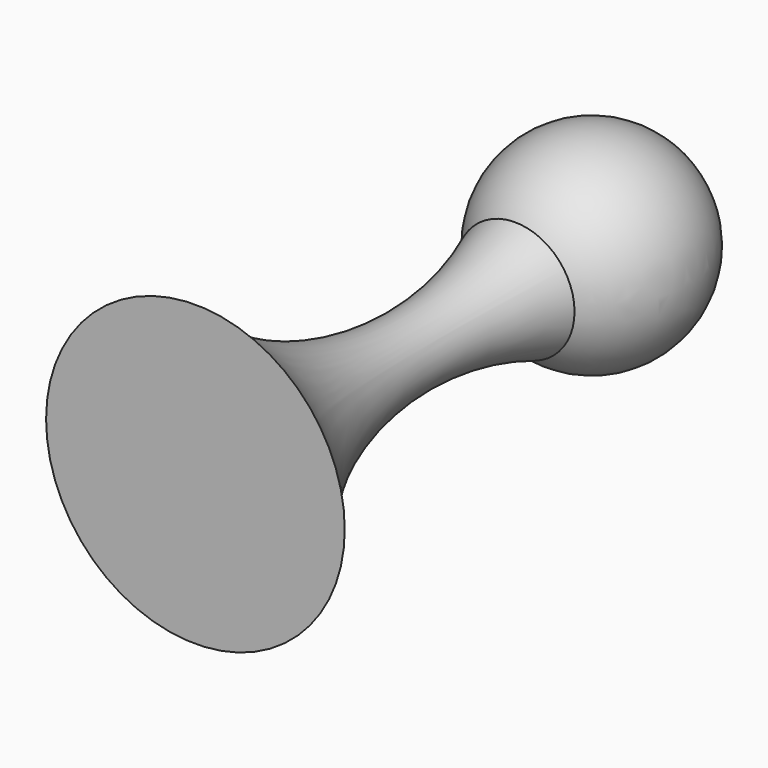
from build123d import *


with BuildPart() as f1:
    # F0 (on Top) → F1 (revolve)
    with BuildSketch(Plane.XY):
        with BuildLine():
            ThreePointArc((0, 23.195449), (15.893398, 39.088847), (0, 54.982245))
            Line((0, 54.982245), (0, 23.195449))
        make_face()
        with BuildLine():
            ThreePointArc((9.286268, 24.131998), (4.711945, 22.981432), (0, 23.195449))
            Line((0, 23.195449), (0, -38.23138))
            Line((0, -38.23138), (23.309627, -38.23138))
            ThreePointArc((23.309627, -38.23138), (6.781693, -9.189567), (9.286268, 24.131998))
        make_face()
    revolve(axis=Axis((0, 8.375432, 0), (0, -1, 0)))


solid = f1.part
